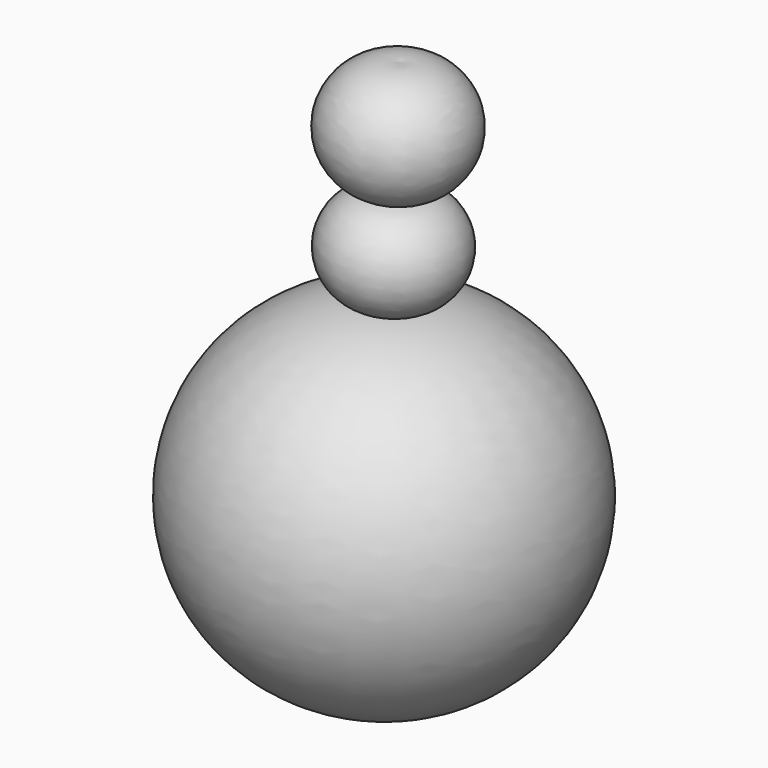
from build123d import *


with BuildPart() as f1:
    # F0 (on Front) → F1 (revolve)
    with BuildSketch(Plane.XZ):
        with BuildLine():
            Line((-19.8166370392, -175.3846912866), (-9.2026665807, 72.6739913225))
            ThreePointArc((-9.2026665807, 72.6739913225), (-39.8163437389, 52.6742846228), (-19.8166370392, 22.0606074646))
            ThreePointArc((-19.8166370392, 22.0606074646), (-40.5957838551, 0), (-19.8166370392, -22.0606074646))
            ThreePointArc((-19.8166370392, -22.0606074646), (-96.4786789502, -98.7226493756), (-19.8166370392, -175.3846912866))
        make_face()
    revolve(axis=Axis((-14.5096518099, 0, -51.355349982), (0.0427490282, 0, 0.9990858425)))


solid = f1.part
